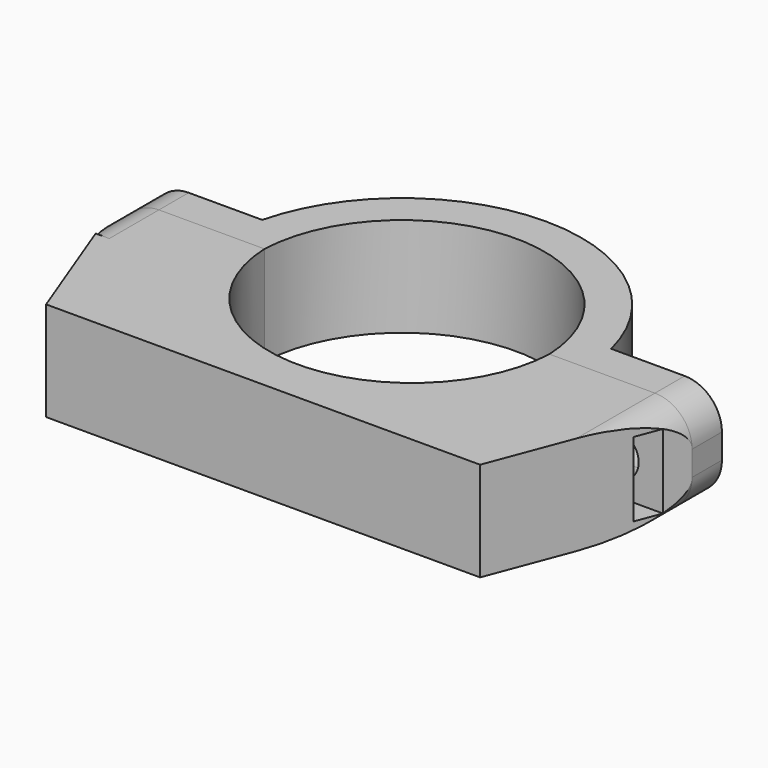
from build123d import *

# Parameters (mm, degrees)
PAD_DEPTH            = 8
SKETCH001_R          = 1.75
POCKET_DEPTH         = 3.001
SKETCH002_R          = 1.75
POCKET001_DEPTH      = 3.001
FILLET_R             = 3
BODY_PLACEMENT_ANGLE = 180
PAD001_DEPTH         = 8
SKETCH004_R          = 1.75
POCKET002_DEPTH      = 5
SKETCH005_R          = 1.75
POCKET003_DEPTH      = 5
SKETCH006_W          = 2
SKETCH006_H          = 6
POCKET004_DEPTH      = 6
POCKET004_DEPTH_BACK = -3
SKETCH007_W          = 2
SKETCH007_H          = 6
POCKET005_DEPTH      = 3
POCKET005_DEPTH_BACK = -6
POCKET006_DEPTH      = 5
POCKET007_DEPTH      = 14.501


with BuildPart() as lower:
    # Sketch → Pad (new body)
    with BuildSketch(Plane.XY):
        with BuildLine():
            Line((-11.489125, 0), (-23, 0))
            Line((-23, 0), (-23, -3))
            Line((-23, -3), (-14.071247, -3))
            ThreePointArc((-14.071247, -3), (0, -14), (14.071247, -3))
            Line((23, -3), (14.071247, -3))
            Line((23, 0), (23, -3))
            Line((11.489125, 0), (23, 0))
            ThreePointArc((-11.489125, 0), (0, -11), (11.489125, 0))
        make_face()
    extrude(amount=PAD_DEPTH)

    # Sketch001 (on Face6 of Pad) → Pocket (cut, through all)
    with BuildSketch(Plane.XZ.offset(3)):
        with Locations((18.535624, 4)):
            Circle(SKETCH001_R)
    extrude(amount=-POCKET_DEPTH, mode=Mode.SUBTRACT)

    # Sketch002 (on Face9 of Pocket) → Pocket001 (cut, through all)
    with BuildSketch(Plane.XZ.offset(3)):
        with Locations((-18.535624, 4)):
            Circle(SKETCH002_R)
    extrude(amount=-POCKET001_DEPTH, mode=Mode.SUBTRACT)

    # Fillet
    fillet_edges = [lower.edges().sort_by_distance(p)[0] for p in [
        (23, -1.5, 8),
        (23, -1.5, 0),
        (-23, -1.5, 8),
        (-23, -1.5, 0),
    ]]
    fillet(fillet_edges, radius=FILLET_R)


with BuildPart() as lower_1:
    # Body placement: moved
    add(lower.part.rotate(Axis((0, 0, 0), (0, 0, 1)), BODY_PLACEMENT_ANGLE))


with BuildPart() as upper:
    # Sketch003 → Pad001 (new body)
    with BuildSketch(Plane.XY):
        with BuildLine():
            Line((-11.489125, 0), (-23, 0))
            Line((-23, 0), (-17.5, -14.5))
            Line((17.5, -14.5), (-17.5, -14.5))
            Line((23, 0), (17.5, -14.5))
            Line((11.489125, 0), (23, 0))
            ThreePointArc((-11.489125, 0), (0, -11), (11.489125, 0))
        make_face()
    extrude(amount=PAD001_DEPTH)

    # Sketch004 (on Face6 of Pad001) → Pocket002 (cut)
    with BuildSketch(Plane(origin=(0, 0, 0), x_dir=(-1, 0, 0), z_dir=(0, 1, 0))):
        with Locations((18.535, 4)):
            Circle(SKETCH004_R)
    extrude(amount=-POCKET002_DEPTH, mode=Mode.SUBTRACT)

    # Sketch005 (on Face6 of Pad001) → Pocket003 (cut)
    with BuildSketch(Plane(origin=(0, 0, 0), x_dir=(-1, 0, 0), z_dir=(0, 1, 0))):
        with Locations((-18.535, 4)):
            Circle(SKETCH005_R)
    extrude(amount=-POCKET003_DEPTH, mode=Mode.SUBTRACT)

    # Sketch006 → Pocket004 (cut, two sides)
    with BuildSketch(Plane.YZ.offset(-18.5)) as pocket004_sk:
        with Locations((-3, 4)):
            Rectangle(SKETCH006_W, SKETCH006_H)
    extrude(amount=-POCKET004_DEPTH, mode=Mode.SUBTRACT)
    extrude(pocket004_sk.sketch, amount=-POCKET004_DEPTH_BACK, mode=Mode.SUBTRACT)

    # Sketch007 → Pocket005 (cut, two sides)
    with BuildSketch(Plane.YZ.offset(18.5)) as pocket005_sk:
        with Locations((-3, 4)):
            Rectangle(SKETCH007_W, SKETCH007_H)
    extrude(amount=-POCKET005_DEPTH, mode=Mode.SUBTRACT)
    extrude(pocket005_sk.sketch, amount=-POCKET005_DEPTH_BACK, mode=Mode.SUBTRACT)

    # Sketch008 (on Face3 of Pocket005) → Pocket006 (cut)
    with BuildSketch(Plane(origin=(0, 0, 0), x_dir=(-1, 0, 0), z_dir=(0, 1, 0))):
        with BuildLine():
            ThreePointArc((23, 5), (22.12132, 7.12132), (20, 8))
            Line((20, 10), (20, 8))
            Line((25, 10), (20, 10))
            Line((25, 5), (25, 10))
            Line((23, 5), (25, 5))
        make_face()
        with BuildLine():
            ThreePointArc((20, 0), (22.12132, 0.87868), (23, 3))
            Line((23, 3), (25, 3))
            Line((25, 3), (25, -2))
            Line((25, -2), (20, -2))
            Line((20, -2), (20, 0))
        make_face()
    extrude(amount=-POCKET006_DEPTH, mode=Mode.SUBTRACT)

    # Sketch009 (on Face3 of Pocket006) → Pocket007 (cut, through all)
    with BuildSketch(Plane(origin=(0, 0, 0), x_dir=(-1, 0, 0), z_dir=(0, 1, 0))):
        with BuildLine():
            ThreePointArc((-20, 8), (-22.12132, 7.12132), (-23, 5))
            Line((-25, 5), (-23, 5))
            Line((-25, 10), (-25, 5))
            Line((-20, 10), (-25, 10))
            Line((-20, 8), (-20, 10))
        make_face()
        with BuildLine():
            ThreePointArc((-23, 3), (-22.12132, 0.87868), (-20, 0))
            Line((-20, 0), (-20, -2))
            Line((-20, -2), (-25, -2))
            Line((-25, -2), (-25, 3))
            Line((-25, 3), (-23, 3))
        make_face()
    extrude(amount=-POCKET007_DEPTH, mode=Mode.SUBTRACT)


solid = Compound([lower_1.part, upper.part])
